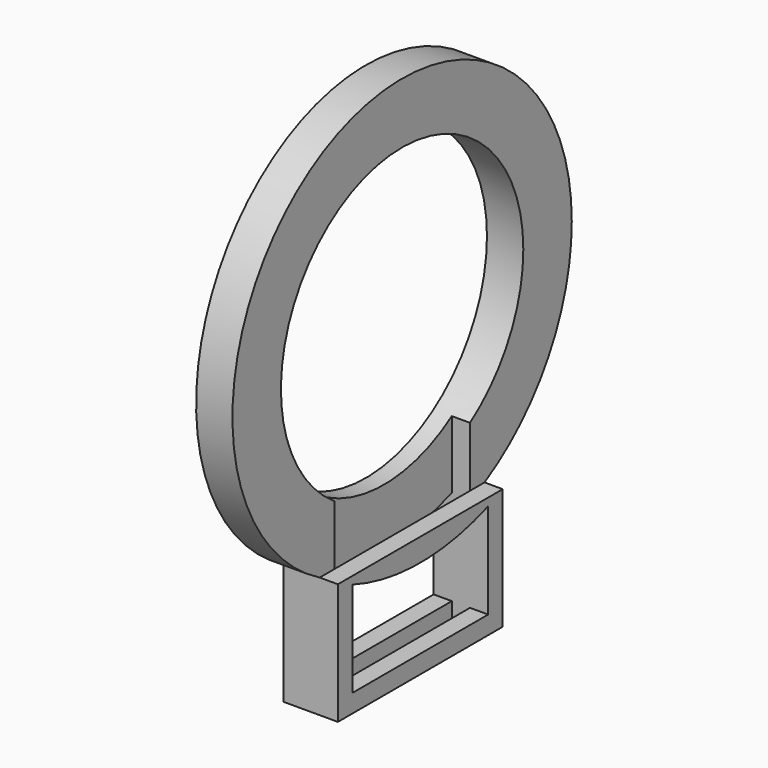
from build123d import *

# Parameters (mm, degrees)
F1_DEPTH = 11.43
F0_R     = 31.75
F4_DEPTH = 7.62
F2_W     = 3.81
F2_H     = 35.56
F5_DEPTH = 76.2
F6_DEPTH = 76.2


with BuildPart() as f1:
    # F0 (on Right) → F1 (new body)
    with BuildSketch(Plane.YZ):
        with BuildLine():
            Line((-21.237904, -275.042741), (-64.417904, -275.042741))
            ThreePointArc((-64.417904, -275.042741), (-42.827904, -280.638212), (-21.237904, -275.042741))
        make_face()
        with BuildLine():
            ThreePointArc((-21.237904, -275.042741), (-42.827904, -280.638212), (-64.417904, -275.042741))
            Line((-64.417904, -275.042741), (-64.417904, -300.442741))
            Line((-64.417904, -300.442741), (-21.237904, -300.442741))
            Line((-21.237904, -300.442741), (-21.237904, -275.042741))
        make_face()
    extrude(amount=F1_DEPTH)

    # F0 (on Right) → F4 (join)
    with BuildSketch(Plane.YZ):
        with BuildLine():
            ThreePointArc((-21.237904, -275.042741), (-4.516822, -258.728476), (1.622096, -236.188212))
            ThreePointArc((1.622096, -236.188212), (-65.368168, -197.87713), (-64.417904, -275.042741))
            Line((-64.417904, -275.042741), (-21.237904, -275.042741))
        make_face()
        with Locations((-42.827904, -236.188212)):
            Circle(F0_R, mode=Mode.SUBTRACT)
    extrude(amount=F4_DEPTH)

    # F2 (on face) → F5 (cut)
    with BuildSketch(Plane(origin=(0, 0, -300.442741), x_dir=(1, 0, 0), z_dir=(0, 0, -1))):
        with Locations((5.715, 42.827904)):
            Rectangle(F2_W, F2_H)
    extrude(amount=-F5_DEPTH, mode=Mode.SUBTRACT)

    # F3 (on face) → F6 (cut)
    with BuildSketch(Plane.YZ.offset(11.43)):
        with BuildLine():
            Line((-60.607904, -276.645803), (-60.607904, -296.632741))
            Line((-60.607904, -296.632741), (-25.047904, -296.632741))
            Line((-25.047904, -296.632741), (-25.047904, -276.645803))
            ThreePointArc((-25.047904, -276.645803), (-42.827904, -279.858919), (-60.607904, -276.645803))
        make_face()
    extrude(amount=-F6_DEPTH, mode=Mode.SUBTRACT)


solid = f1.part
